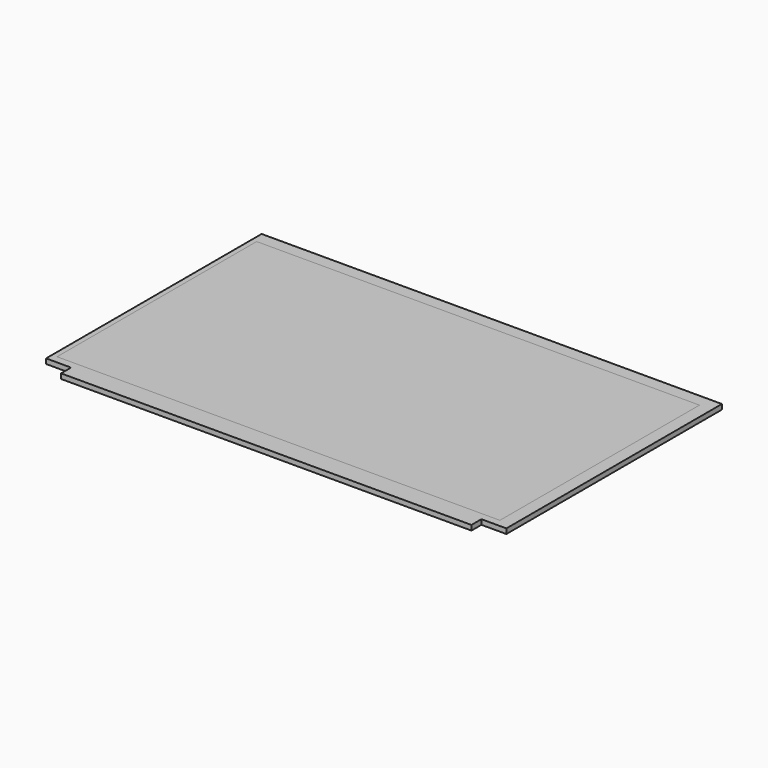
from build123d import *

# Parameters (mm, degrees)
F0_W     = 4
F0_H     = 200
F0_W_2   = 329
F0_H_2   = 10
F0_W_3   = 10
F1_DEPTH = 4
F2_W     = 355
F2_H     = 200
F3_DEPTH = 4


with BuildPart() as f1:
    # F0 (on Top) → F1 (new body)
    with BuildSketch(Plane.XY):
        Polygon((-184.5, 100), (-180.5, 100), (174.5, 100), (184.5, 100), (184.5, 110), (-184.5, 110), align=None)
        with Locations((-182.5, 0)):
            Rectangle(F0_W, F0_H)
        Polygon((174.5, -100), (-180.5, -100), (-184.5, -100), (-184.5, -106), (-164.5, -106), (164.5, -106), (184.5, -106), (184.5, -100), align=None)
        with Locations((0, -111)):
            Rectangle(F0_W_2, F0_H_2)
        with Locations((179.5, 0)):
            Rectangle(F0_W_3, F0_H)
    extrude(amount=F1_DEPTH)


with BuildPart() as f3:
    # F2 (on face) → F3 (new body)
    with BuildSketch(Plane(origin=(0, 0, 0), x_dir=(1, 0, 0), z_dir=(0, 0, -1))):
        with Locations((-3, 0)):
            Rectangle(F2_W, F2_H)
    extrude(amount=-F3_DEPTH)


solid = Compound([f1.part, f3.part])
